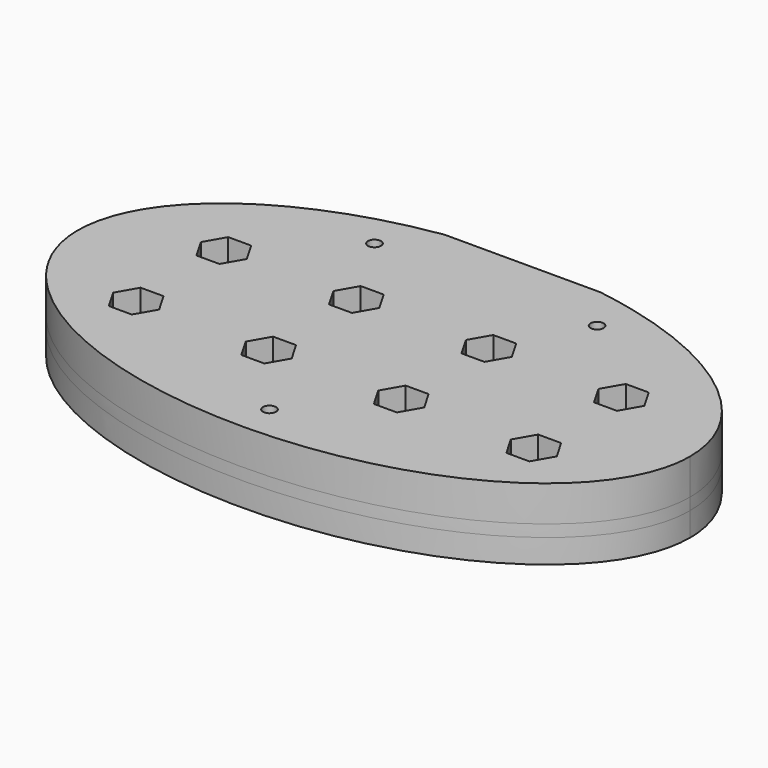
from build123d import *

# Parameters (mm, degrees)
BOX_BOTTOM_HALF_0_W     = 78.999568
BOX_BOTTOM_HALF_0_H     = 46.255487
BOX_BOTTOM_HALF_0_DEPTH = 5.5
PAD_DEPTH               = 6
POCKET_DEPTH            = 3
PAD001_DEPTH            = 3
SKETCH003_W             = 66
SKETCH003_H             = 2.77
POCKET001_DEPTH         = 3
SKETCH004_W             = 19.6
SKETCH004_H             = 1
POCKET002_DEPTH         = 9.001
SKETCH005_R             = 0.82
POCKET003_DEPTH         = 9.001
POCKET004_DEPTH         = 9.001
LINEARPATTERN_COUNT     = 4
LINEARPATTERN_PITCH     = 16.666667


with BuildPart() as box_bottom_half_0_body:
    # box_bottom_half_0 → box_bottom_half_0 (new body)
    with BuildSketch(Plane(origin=(-39.499568, -23.496619, -4), x_dir=(1, 0, 0), z_dir=(0, 0, 1))):
        with Locations((39.499784, 23.127743)):
            Rectangle(BOX_BOTTOM_HALF_0_W, BOX_BOTTOM_HALF_0_H)
    extrude(amount=BOX_BOTTOM_HALF_0_DEPTH)


with BuildPart() as body:
    # Sketch → Pad (new body)
    with BuildSketch(Plane.XY):
        with BuildLine():
            add(Edge.make_bspline(
                [(38.5, 0), (38.5, 38.971143), (-19.25, 19.485572), (-77, 0), (-19.25, -19.485572), (38.5, -38.971143), (38.5, 0)],
                knots=[0, 0, 0, 2.094395, 2.094395, 4.18879, 4.18879, 6.283185, 6.283185, 6.283185], degree=2, weights=[1, 0.5, 1, 0.5, 1, 0.5, 1]))
        make_face()
    extrude(amount=PAD_DEPTH)

    # Sketch001 (on Face2 of Pad) → Pocket (cut)
    with BuildSketch(Plane(origin=(0, 0, 0), x_dir=(1, 0, 0), z_dir=(0, 0, -1))):
        Polygon((9.55, -3.696801), (9.55, -21.796801), (-9.55, -21.796801), (-9.55, -3.696801), (-33, -3.696801), (-33, 6.303199), (33, 6.303199), (33, -3.696801), align=None)
    extrude(amount=-POCKET_DEPTH, mode=Mode.SUBTRACT)

    # Sketch002 (on Face2 of Pocket) → Pad001 (join)
    with BuildSketch(Plane(origin=(0, 0, 0), x_dir=(1, 0, 0), z_dir=(0, 0, -1))):
        with BuildLine():
            add(Edge.make_bspline(
                [(38.5, 0), (38.5, 38.971143), (-19.25, 19.485572), (-77, 0), (-19.25, -19.485572), (38.5, -38.971143), (38.5, 0)],
                knots=[0, 0, 0, 2.094395, 2.094395, 4.18879, 4.18879, 6.283185, 6.283185, 6.283185], degree=2, weights=[1, 0.5, 1, 0.5, 1, 0.5, 1]))
        make_face()
    extrude(amount=PAD001_DEPTH)

    # Sketch003 (on Face4 of Pad001) → Pocket001 (cut)
    with BuildSketch(Plane(origin=(0, 0, -3), x_dir=(1, 0, 0), z_dir=(0, 0, -1))):
        with Locations((0, 1.303199)):
            Rectangle(SKETCH003_W, SKETCH003_H)
    extrude(amount=-POCKET001_DEPTH, mode=Mode.SUBTRACT)

    # Sketch004 (on Face4 of Pocket001) → Pocket002 (cut, through all)
    with BuildSketch(Plane(origin=(0, 0, -3), x_dir=(1, 0, 0), z_dir=(0, 0, -1))):
        with Locations((0, -22.258868)):
            Rectangle(SKETCH004_W, SKETCH004_H)
    extrude(amount=-POCKET002_DEPTH, mode=Mode.SUBTRACT)

    # Sketch005 (on Face4 of Pocket002) → Pocket003 (cut, through all)
    with BuildSketch(Plane.XY.offset(6)):
        with Locations((-14, 16)):
            Circle(SKETCH005_R)
        with Locations((14, 16)):
            Circle(SKETCH005_R)
        with Locations((0, -18)):
            Circle(SKETCH005_R)
    extrude(amount=-POCKET003_DEPTH, mode=Mode.SUBTRACT)

    # Sketch006 (on Face7 of Pocket003) → Pocket004 (cut, through all)
    with BuildSketch(Plane(origin=(0, 0, -3), x_dir=(1, 0, 0), z_dir=(0, 0, -1))):
        Polygon((-21.726497, -5.581801), (-23.169873, -3.081801), (-26.056624, -3.081801), (-27.5, -5.581801), (-26.056624, -8.081801), (-23.169873, -8.081801), align=None)
        Polygon((-23.169873, 5.688199), (-21.726497, 8.188199), (-23.169873, 10.688199), (-26.056624, 10.688199), (-27.5, 8.188199), (-26.056624, 5.688199), align=None)
    pocket004 = extrude(amount=-POCKET004_DEPTH, mode=Mode.SUBTRACT)

    # LinearPattern: Pocket004 ×4
    with Locations(*[(i * LINEARPATTERN_PITCH, 0, 0) for i in range(1, LINEARPATTERN_COUNT)]):
        add(pocket004, mode=Mode.SUBTRACT)


with BuildPart() as bottom_half_0_body:
    # bottom_half_0 base: copy of Body
    add(body.part)

    # bottom_half_0: intersect box_bottom_half_0 body
    add(box_bottom_half_0_body.part, mode=Mode.INTERSECT)


with BuildPart() as top_half_0_body:
    # top_half_0 base: copy of Body
    add(body.part)

    # top_half_0: cut box_bottom_half_0 body
    add(box_bottom_half_0_body.part, mode=Mode.SUBTRACT)


solid = Compound([bottom_half_0_body.part, top_half_0_body.part])
